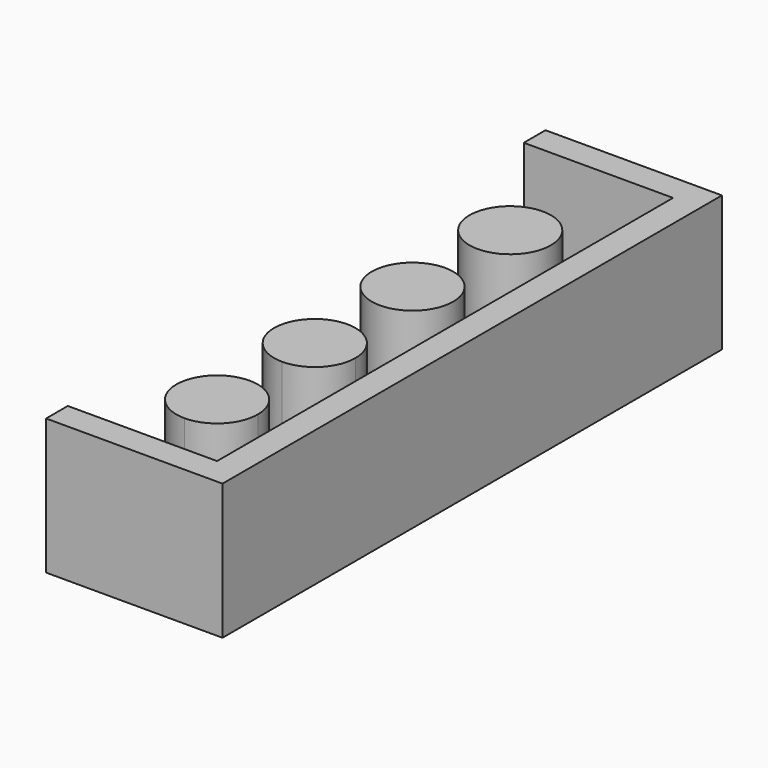
from build123d import *

# Parameters (mm, degrees)
F0_R     = 3
F1_DEPTH = 1
F2_DEPTH = 10
F3_DEPTH = 9


with BuildPart() as f1:
    # F0 (on Top) → F1 (new body)
    with BuildSketch(Plane.XY):
        Polygon((5, -20), (5, 20), (-5, 20), (-5, -20), (0, -20), align=None)
        with BuildLine():
            ThreePointArc((3, -13.5), (2.12132, -15.62132), (0, -16.5))
            ThreePointArc((0, -16.5), (-3, -13.5), (0, -10.5))
            ThreePointArc((0, -10.5), (2.12132, -11.37868), (3, -13.5))
        make_face(mode=Mode.SUBTRACT)
        with BuildLine():
            ThreePointArc((3, -4.5), (2.12132, -6.62132), (0, -7.5))
            ThreePointArc((0, -7.5), (-2.12132, -2.37868), (3, -4.5))
        make_face(mode=Mode.SUBTRACT)
        with Locations((0, 4.5)):
            Circle(F0_R, mode=Mode.SUBTRACT)
        with Locations((0, 13.5)):
            Circle(F0_R, mode=Mode.SUBTRACT)
        Polygon((-5, 20), (5, 20), (5, -20), (0, -20), (-5, -20), (-5, -21), (6, -21), (6, 21), (-5, 21), align=None)
    extrude(amount=F1_DEPTH)

    # F0 (on Top) → F2 (join)
    with BuildSketch(Plane.XY):
        Polygon((-5, 23), (-5, 21), (6, 21), (6, -21), (-5, -21), (-5, -23), (8, -23), (8, 23), align=None)
    extrude(amount=F2_DEPTH)

    # F0 (on Top) → F3 (join)
    with BuildSketch(Plane.XY):
        with Locations((0, 13.5)):
            Circle(F0_R)
        with Locations((0, 4.5)):
            Circle(F0_R)
        with BuildLine():
            ThreePointArc((3, -4.5), (-2.12132, -2.37868), (0, -7.5))
            ThreePointArc((0, -7.5), (2.12132, -6.62132), (3, -4.5))
        make_face()
        with BuildLine():
            Line((0, -13.5), (0, -16.5))
            ThreePointArc((0, -16.5), (2.12132, -15.62132), (3, -13.5))
            ThreePointArc((3, -13.5), (2.12132, -11.37868), (0, -10.5))
            Line((0, -10.5), (0, -13.5))
        make_face()
        with BuildLine():
            ThreePointArc((0, -10.5), (-3, -13.5), (0, -16.5))
            Line((0, -16.5), (0, -13.5))
            Line((0, -13.5), (0, -10.5))
        make_face()
    extrude(amount=F3_DEPTH)


solid = f1.part
